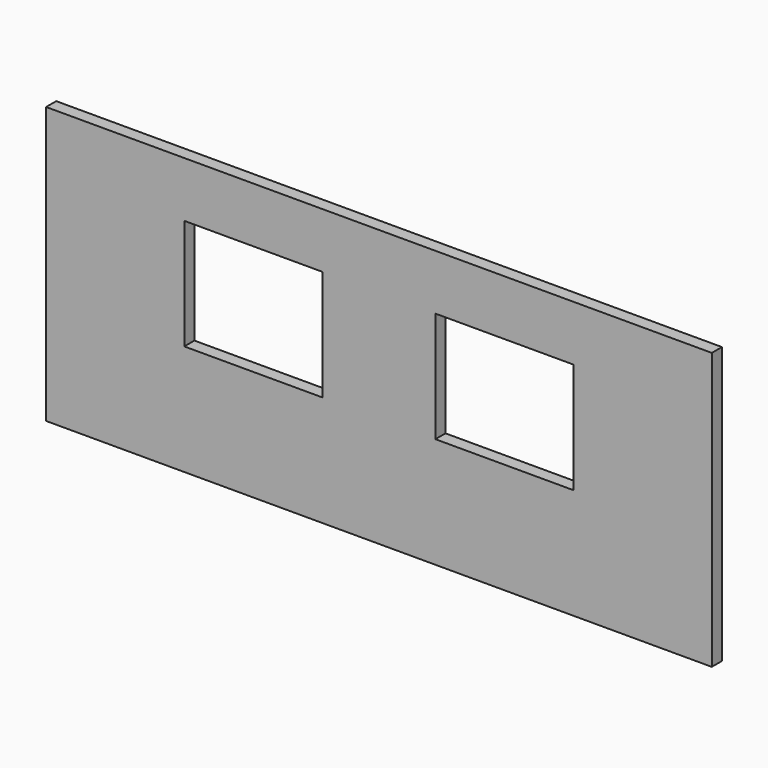
from build123d import *

# Parameters (mm, degrees)
F0_W     = 7340.6
F0_H     = 3048
F0_W_2   = 1524
F0_H_2   = 1219.2
F1_DEPTH = 139.7


with BuildPart() as f1:
    # F0 (on Front) → F1 (new body)
    with BuildSketch(Plane.XZ):
        with Locations((3670.3, 1524)):
            Rectangle(F0_W, F0_H)
        with Locations((2286, 1828.8)):
            Rectangle(F0_W_2, F0_H_2, mode=Mode.SUBTRACT)
        with Locations((5054.6, 1828.8)):
            Rectangle(F0_W_2, F0_H_2, mode=Mode.SUBTRACT)
    extrude(amount=-F1_DEPTH)


solid = f1.part
